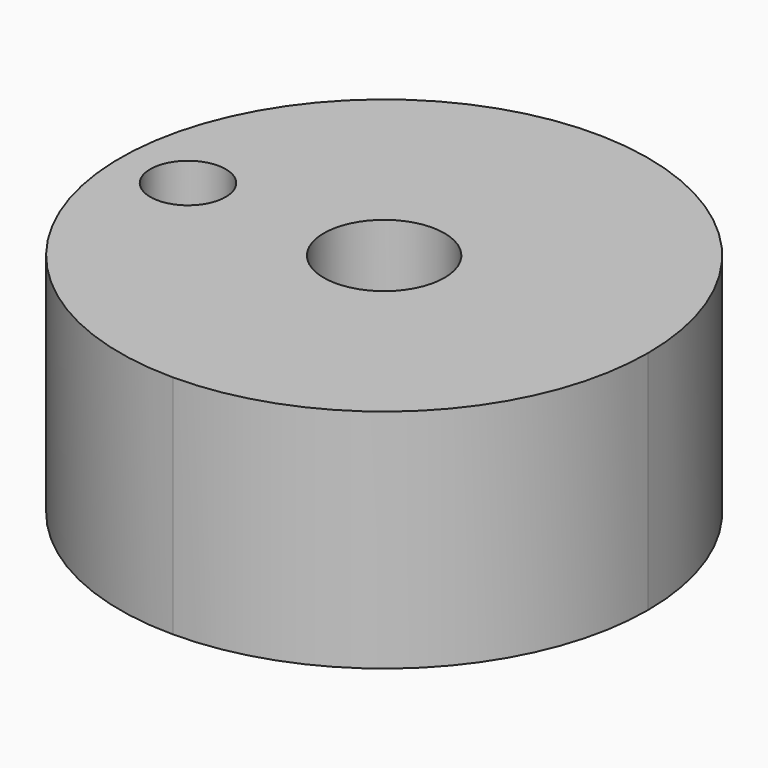
from build123d import *

# Parameters (mm, degrees)
F0_R     = 2.5
F0_R_2   = 4
F1_DEPTH = 15


with BuildPart() as f1:
    # F0 (on Top) → F1 (new body)
    with BuildSketch(Plane.XY):
        with BuildLine():
            ThreePointArc((130, 32.5), (142.374369, 37.625631), (147.5, 50))
            ThreePointArc((147.5, 50), (117.625631, 62.374369), (130, 32.5))
        make_face()
        with Locations((117, 50)):
            Circle(F0_R, mode=Mode.SUBTRACT)
        with Locations((130, 50)):
            Circle(F0_R_2, mode=Mode.SUBTRACT)
    extrude(amount=F1_DEPTH)


solid = f1.part
